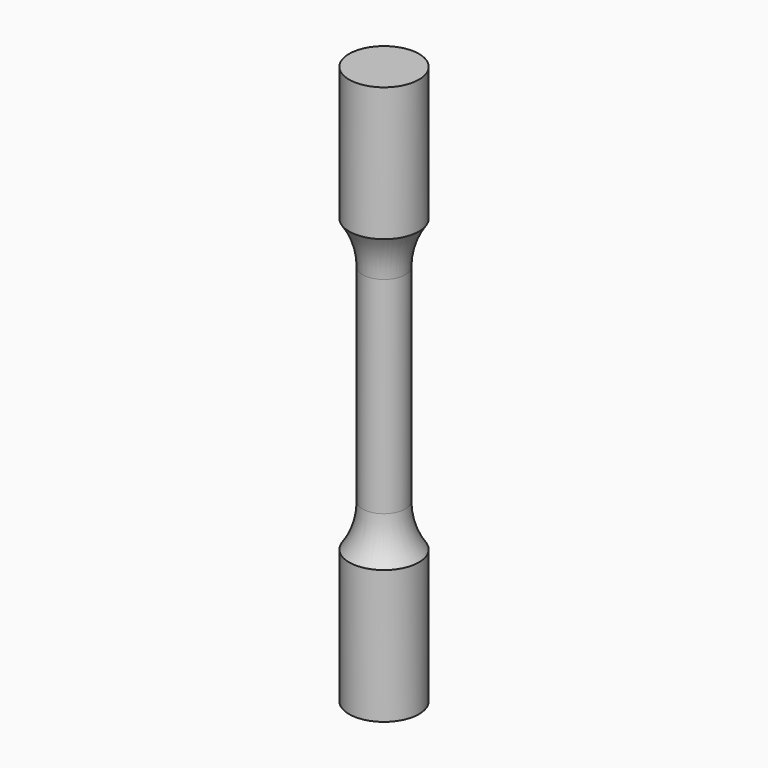
from build123d import *

# Parameters (mm, degrees)
F0_W = 7.5
F0_H = 120


with BuildPart() as f1:
    # F0 (on Front) → F1 (revolve)
    with BuildSketch(Plane.XZ):
        with Locations((3.75, 60)):
            Rectangle(F0_W, F0_H)
    revolve(axis=Axis((0, 0, 60), (0, 0, 1)))

    # F2 (on Front) → F3 (revolve, cut)
    with BuildSketch(Plane.XZ):
        with BuildLine():
            ThreePointArc((-20.40513, 22.038545), (-9.22552, 26.669291), (-4.594774, 37.848901))
            Line((-4.594774, 37.848901), (-4.594774, 82.151099))
            ThreePointArc((-4.594774, 82.151099), (-9.22552, 93.330709), (-20.40513, 97.961455))
            Line((-20.40513, 97.961455), (-20.40513, 22.038545))
        make_face()
    revolve(axis=Axis((0, 0, 57.177005), (0, 0, 1)), mode=Mode.SUBTRACT)


solid = f1.part
